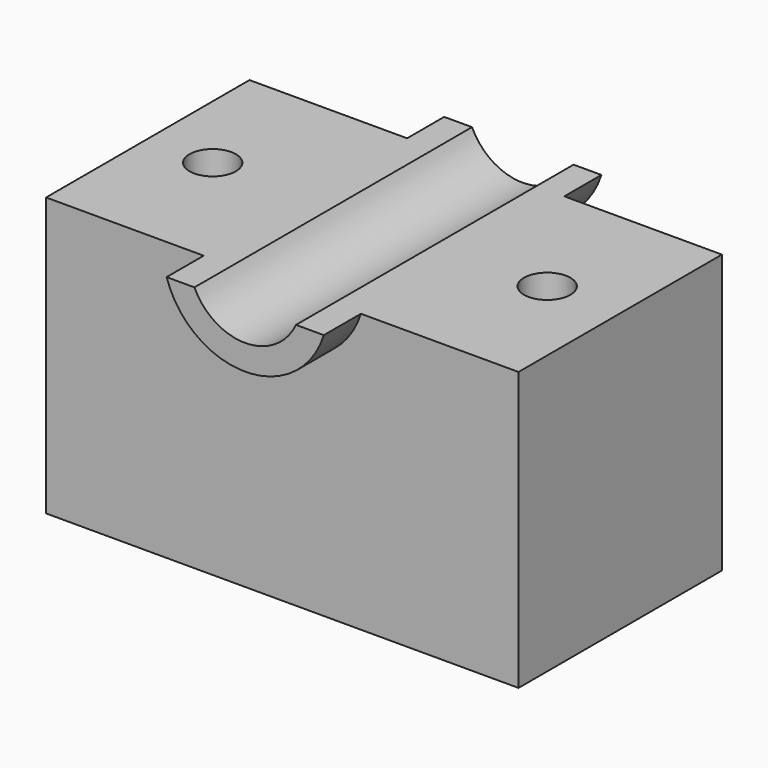
from build123d import *

# Parameters (mm, degrees)
F0_W     = 129.4137537479
F0_H     = 69.6472600102
F1_DEPTH = 76.2
F3_DEPTH = 12.7
F4_DEPTH = 127
F6_DEPTH = 12.7
F7_R     = 6.35
F8_DEPTH = 127


with BuildPart() as f1:
    # F0 (on Top) → F1 (new body)
    with BuildSketch(Plane.XY):
        Rectangle(F0_W, F0_H)
    extrude(amount=F1_DEPTH)

    # F2 (on face) → F3 (join)
    with BuildSketch(Plane(origin=(0, 34.8236300051, 0), x_dir=(-1, 0, 0), z_dir=(0, 1, 0))):
        with BuildLine():
            Line((-13.906876874, 76.2), (-21.526876874, 76.2))
            ThreePointArc((-21.526876874, 76.2), (0, 60.3776017268), (21.526876874, 76.2))
            Line((21.526876874, 76.2), (13.906876874, 76.2))
            ThreePointArc((13.906876874, 76.2), (0, 67.3132582233), (-13.906876874, 76.2))
        make_face()
    extrude(amount=F3_DEPTH)

    # F2 (on face) → F4 (cut)
    with BuildSketch(Plane(origin=(0, 34.8236300051, 0), x_dir=(-1, 0, 0), z_dir=(0, 1, 0))):
        with BuildLine():
            Line((13.906876874, 76.2), (-13.906876874, 76.2))
            ThreePointArc((-13.906876874, 76.2), (0, 67.3132582233), (13.906876874, 76.2))
        make_face()
    extrude(amount=-F4_DEPTH, mode=Mode.SUBTRACT)

    # F5 (on face) → F6 (join)
    with BuildSketch(Plane.XZ.offset(34.8236300051)):
        with BuildLine():
            Line((-13.906876874, 76.2), (-21.526876874, 76.2))
            ThreePointArc((-21.526876874, 76.2), (0, 60.3776017268), (21.526876874, 76.2))
            Line((21.526876874, 76.2), (13.906876874, 76.2))
            ThreePointArc((13.906876874, 76.2), (0, 67.3132582233), (-13.906876874, 76.2))
        make_face()
    extrude(amount=F6_DEPTH)

    # F7 (on face) → F8 (cut)
    with BuildSketch(Plane.XY.offset(76.2)):
        with Locations((-46.926876874, 0)):
            Circle(F7_R)
        with Locations((44.7043851018, 0)):
            Circle(F7_R)
    extrude(amount=-F8_DEPTH, mode=Mode.SUBTRACT)


solid = f1.part
